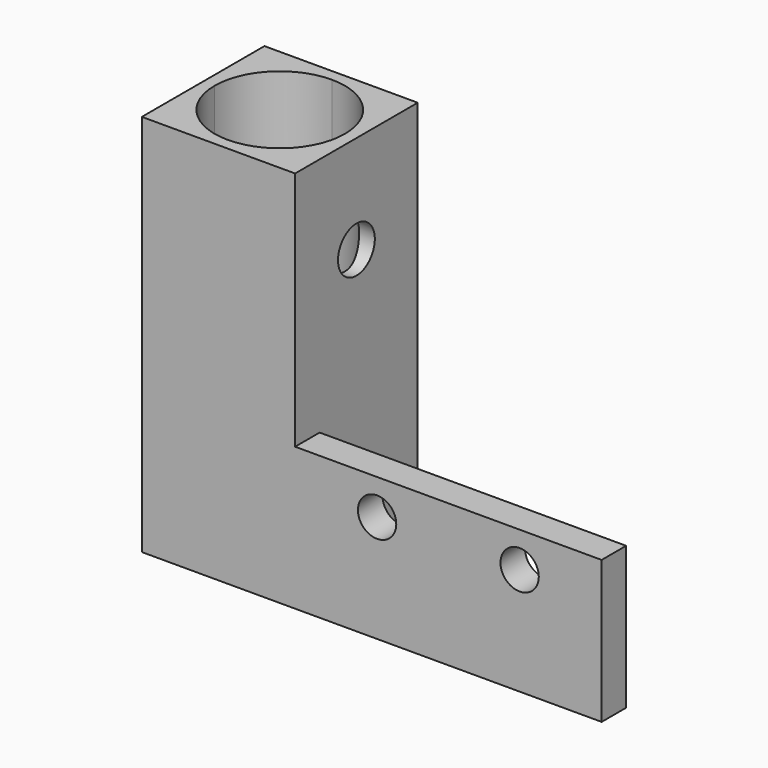
from build123d import *

# Parameters (mm, degrees)
F0_W     = 10
F0_H     = 10
F1_DEPTH = 25
F3_DEPTH = 25.001
F4_W     = 2
F4_H     = 9.304529
F5_DEPTH = 20
F7_D     = 2.5
F9_D     = 3
F9_DEPTH = 5


with BuildPart() as f1:
    # F0 (on Top) → F1 (new body)
    with BuildSketch(Plane.XY):
        with Locations((5, 5)):
            Rectangle(F0_W, F0_H)
    extrude(amount=F1_DEPTH)

    # F2 (on face) → F3 (cut, through all)
    with BuildSketch(Plane.XY.offset(25)):
        with BuildLine():
            ThreePointArc((9.25, 5), (8.005204, 8.005204), (5, 9.25))
            Line((5, 9.25), (5, 5))
            Line((5, 5), (9.25, 5))
        make_face()
        with BuildLine():
            Line((5, 5), (5, 9.25))
            ThreePointArc((5, 9.25), (1.994796, 8.005204), (0.75, 5))
            Line((0.75, 5), (5, 5))
        make_face()
        with BuildLine():
            Line((9.25, 5), (5, 5))
            Line((5, 5), (5, 0.75))
            ThreePointArc((5, 0.75), (8.005204, 1.994796), (9.25, 5))
        make_face()
        with BuildLine():
            Line((5, 0.75), (5, 5))
            Line((5, 5), (0.75, 5))
            ThreePointArc((0.75, 5), (1.994796, 1.994796), (5, 0.75))
        make_face()
    extrude(amount=-F3_DEPTH, mode=Mode.SUBTRACT)

    # F4 (on face) → F5 (join)
    with BuildSketch(Plane.YZ.offset(10)):
        with Locations((1, 4.652264)):
            Rectangle(F4_W, F4_H)
    extrude(amount=F5_DEPTH)

    # F7 (through all)
    with Locations(Plane(origin=(0, 2, 0), x_dir=(-1, 0, 0), z_dir=(0, 1, 0))):
        with Locations((-15.35, 7), (-24.65, 7)):
            Hole(F7_D / 2)

    # F9
    with Locations(Plane.YZ.offset(10)):
        with Locations((5, 18.594904)):
            Hole(F9_D / 2, depth=F9_DEPTH)


solid = f1.part
